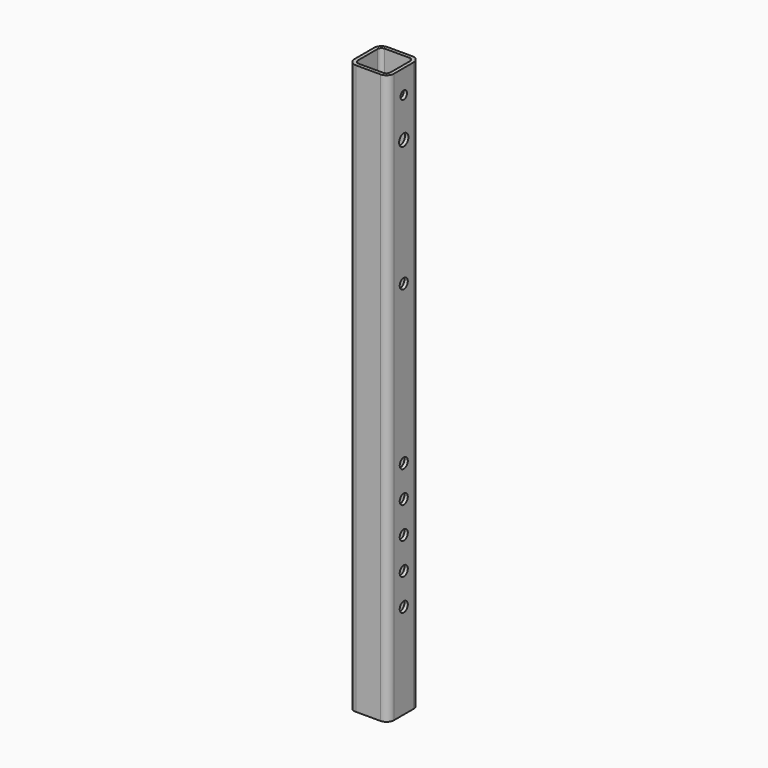
from build123d import *

# Parameters (mm, degrees)
F1_DEPTH = 457.2
F2_R     = 3.302
F2_R_2   = 4.699
F3_DEPTH = 31.751
F4_R     = 4.064
F5_DEPTH = 2.794


with BuildPart() as f1:
    # F0 (on Top) → F1 (new body)
    with BuildSketch(Plane.XY):
        with BuildLine():
            ThreePointArc((0, 5.969), (1.74828, 1.74828), (5.969, 0))
            Line((5.969, 0), (25.781, 0))
            ThreePointArc((25.781, 0), (30.00172, 1.74828), (31.75, 5.969))
            Line((31.75, 5.969), (31.75, 25.781))
            ThreePointArc((31.75, 25.781), (30.00172, 30.00172), (25.781, 31.75))
            Line((25.781, 31.75), (5.969, 31.75))
            ThreePointArc((5.969, 31.75), (1.74828, 30.00172), (0, 25.781))
            Line((0, 25.781), (0, 5.969))
        make_face()
        with BuildLine():
            ThreePointArc((5.969, 2.794), (3.723936, 3.723936), (2.794, 5.969))
            Line((2.794, 5.969), (2.794, 25.781))
            ThreePointArc((2.794, 25.781), (3.723936, 28.026064), (5.969, 28.956))
            Line((5.969, 28.956), (25.781, 28.956))
            ThreePointArc((25.781, 28.956), (28.026064, 28.026064), (28.956, 25.781))
            Line((28.956, 25.781), (28.956, 5.969))
            ThreePointArc((28.956, 5.969), (28.026064, 3.723936), (25.781, 2.794))
            Line((25.781, 2.794), (5.969, 2.794))
        make_face(mode=Mode.SUBTRACT)
    extrude(amount=F1_DEPTH)

    # F2 (on face) → F3 (cut, through all)
    with BuildSketch(Plane.YZ.offset(31.75)):
        with Locations((15.875, 438.15)):
            Circle(F2_R)
        with Locations((15.875, 406.4)):
            Circle(F2_R_2)
    extrude(amount=-F3_DEPTH, mode=Mode.SUBTRACT)

    # F4 (on face) → F5 (cut, through all)
    with BuildSketch(Plane.YZ.offset(31.75)):
        with Locations((15.875, 76.2)):
            Circle(F4_R)
        with Locations((15.875, 101.6)):
            Circle(F4_R)
        with Locations((15.875, 127)):
            Circle(F4_R)
        with Locations((15.875, 152.4)):
            Circle(F4_R)
        with Locations((15.875, 177.8)):
            Circle(F4_R)
        with Locations((15.875, 304.8)):
            Circle(F4_R)
    extrude(amount=-F5_DEPTH, mode=Mode.SUBTRACT)


solid = f1.part
